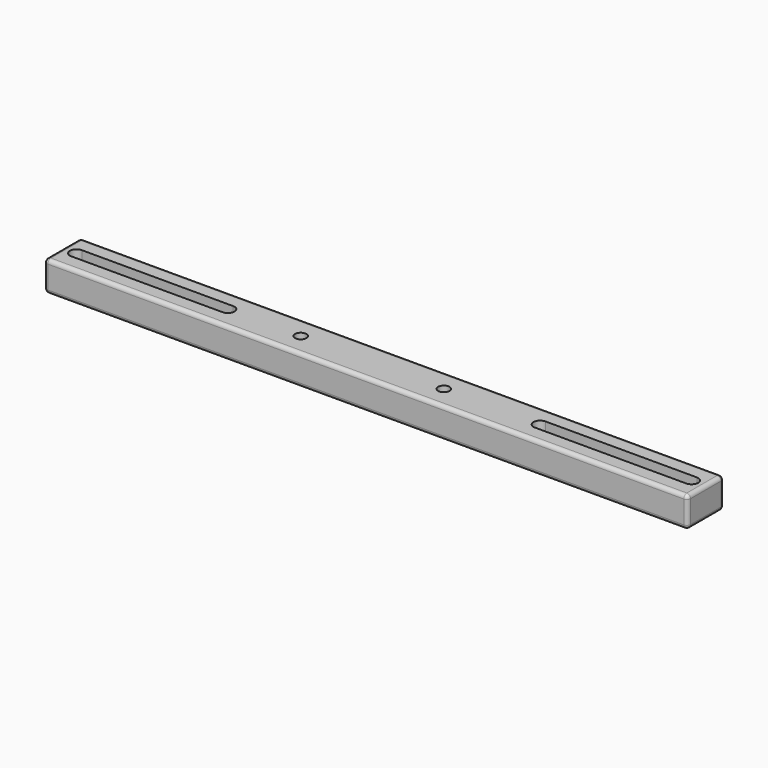
from build123d import *

# Parameters (mm, degrees)
SKETCH_W        = 170
SKETCH_H        = 12
PAD_DEPTH       = 8
POCKET_DEPTH    = 8
POCKET001_DEPTH = 8
FILLET_R        = 1
FILLET001_R     = 1
FILLET002_R     = 1
FILLET003_R     = 1
FILLET004_R     = 1
SKETCH003_R     = 1.5
POCKET002_DEPTH = 8


with BuildPart() as part:
    # Sketch → Pad (new body)
    with BuildSketch(Plane.XY):
        with Locations((85, 6)):
            Rectangle(SKETCH_W, SKETCH_H)
    extrude(amount=PAD_DEPTH)

    # Sketch001 (on Face6 of Pad) → Pocket (cut)
    with BuildSketch(Plane.XY.offset(8)):
        with BuildLine():
            ThreePointArc((3.75, 7.75), (2, 6), (3.75, 4.25))
            Line((3.75, 4.25), (43.75, 4.25))
            ThreePointArc((43.75, 4.25), (45.5, 6), (43.75, 7.75))
            Line((43.75, 7.75), (3.75, 7.75))
        make_face()
    extrude(amount=-POCKET_DEPTH, mode=Mode.SUBTRACT)

    # Sketch002 (on Face5 of Pocket) → Pocket001 (cut)
    with BuildSketch(Plane.XY.offset(8)):
        with BuildLine():
            ThreePointArc((126.25, 7.75), (124.5, 6), (126.25, 4.25))
            Line((126.25, 4.25), (166.25, 4.25))
            ThreePointArc((166.25, 4.25), (168, 6), (166.25, 7.75))
            Line((166.25, 7.75), (126.25, 7.75))
        make_face()
    extrude(amount=-POCKET001_DEPTH, mode=Mode.SUBTRACT)

    # Fillet
    fillet_edges = [part.edges().sort_by_distance(p)[0] for p in [
        (0, 6, 8),
    ]]
    fillet(fillet_edges, radius=FILLET_R)

    # Fillet001
    fillet001_edges = [part.edges().sort_by_distance(p)[0] for p in [
        (0, 0, 3.5),
    ]]
    fillet(fillet001_edges, radius=FILLET001_R)

    # Fillet002
    fillet002_edges = [part.edges().sort_by_distance(p)[0] for p in [
        (0, 6.5, 0),
    ]]
    fillet(fillet002_edges, radius=FILLET002_R)

    # Fillet003
    fillet003_edges = [part.edges().sort_by_distance(p)[0] for p in [
        (0, 12, 4),
    ]]
    fillet(fillet003_edges, radius=FILLET003_R)

    # Fillet004
    fillet004_edges = [part.edges().sort_by_distance(p)[0] for p in [
        (170, 6, 8),
    ]]
    fillet(fillet004_edges, radius=FILLET004_R)

    # Sketch003 (on Face22 of Fillet004) → Pocket002 (cut)
    with BuildSketch(Plane.XY.offset(8)):
        with Locations((63, 6)):
            Circle(SKETCH003_R)
        with Locations((100.8, 6)):
            Circle(SKETCH003_R)
    extrude(amount=-POCKET002_DEPTH, mode=Mode.SUBTRACT)


solid = part.part
